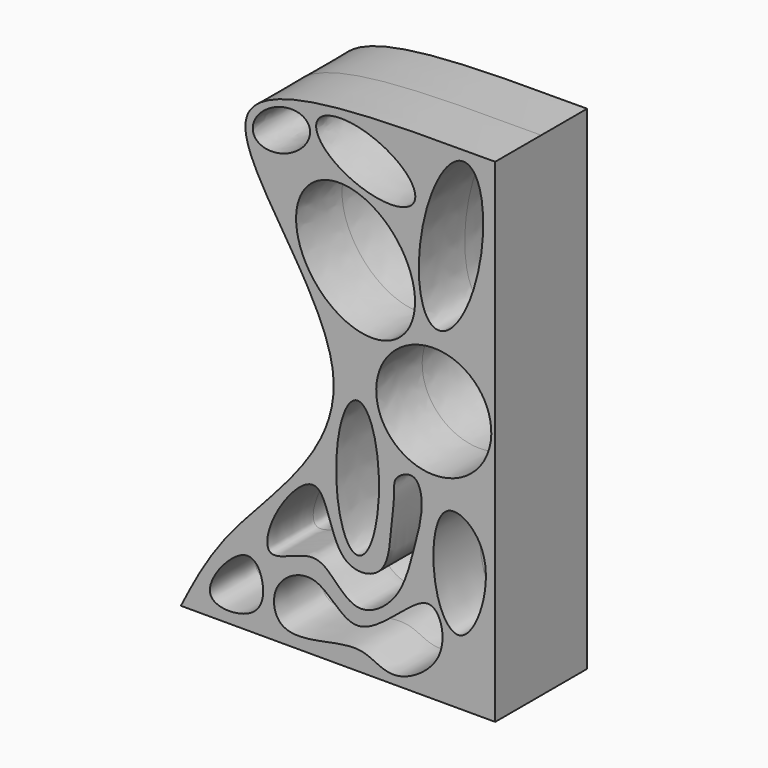
from build123d import *

# Parameters (mm, degrees)
F1_DEPTH = 25


with BuildPart() as f1:
    # F0 (on Front) → F1 (new body, symmetric)
    with BuildSketch(Plane.XZ):
        with BuildLine():
            Line((-136.7941200733, 0), (0, 0))
            Line((0, 0), (0, 93.1697487831))
            Line((0, 93.1697487831), (0, 214.6049141884))
            add(Edge.make_bspline(
                [(0, 214.6049141884), (-52.6230138631, 214.650377186), (-153.1433236908, 215.7874612497), (-37.6194103519, 106.5585054532), (-116.6616194996, 40.2002722281), (-130.7538289068, 11.7587614478), (-136.7941200733, 0)],
                knots=[0, 0, 0, 0, 0.2916341869, 0.5594674217, 0.8131004541, 1, 1, 1, 1], degree=3))
        make_face()
        with BuildLine():
            add(Edge.make_bspline(
                [(-108.9081466198, 28.4780822694), (-115.3085464657, 27.1416982134), (-134.7725582926, 3.5230139978), (-102.2734041726, 4.1089776529), (-99.5090221544, 20.6292411426), (-104.729380294, 29.3505959914), (-108.9081466198, 28.4780822694)],
                knots=[0, 0, 0, 0, 0.306756916, 0.5654545173, 0.7997210328, 1, 1, 1, 1], degree=3))
        make_face(mode=Mode.SUBTRACT)
        with BuildLine():
            add(Edge.make_bspline(
                [(-32.0020280778, 35.107921809), (-39.0419016312, 32.0894486993), (-60.8607966621, 5.9915700376), (-76.3137660054, 34.6438951271), (-98.401004559, 23.1588860634), (-95.4149290185, 1.6090226255), (-70.3804226837, 7.7397403126), (-56.2027677267, 9.5548644931), (-44.1085191178, -0.3094600161), (-21.0020829834, 14.3882991495), (-23.1745225035, 33.7260707991), (-28.6654835374, 36.5385256257), (-32.0020280778, 35.107921809)],
                knots=[0, 0, 0, 0, 0.1365776474, 0.247109983, 0.3479961115, 0.4379726256, 0.5486550206, 0.6394981249, 0.7252392763, 0.8390998568, 0.9352690925, 1, 1, 1, 1], degree=3))
        make_face(mode=Mode.SUBTRACT)
        with BuildLine():
            add(Edge.make_bspline(
                [(-43.9357422292, 74.0029662848), (-43.9488408992, 70.4320004544), (-45.5709102182, 59.4064900472), (-46.5800509693, 38.4227971035), (-70.8551864491, 36.271733783), (-74.0594563059, 77.1873776296), (-98.3287067605, 48.8056068707), (-101.2930391974, 27.5057821077), (-81.254140409, 39.2850373228), (-71.7981095063, 34.8173076032), (-60.4968608326, 19.6398771972), (-40.9505115651, 32.6868711616), (-35.763037163, 53.8024343894), (-30.3702033202, 72.6938779543), (-34.5734140863, 85.0445953783), (-44.5127990205, 79.6379584318), (-43.9278054868, 76.1666848921), (-43.9357422292, 74.0029662848)],
                knots=[0, 0, 0, 0, 0.0650986967, 0.1390145273, 0.2059327548, 0.2924973321, 0.3775674579, 0.4426661629, 0.5106502865, 0.5649882702, 0.6318928504, 0.7044663661, 0.7849866, 0.8614416796, 0.9132950954, 0.9605554161, 1, 1, 1, 1], degree=3))
        make_face(mode=Mode.SUBTRACT)
        with BuildLine():
            add(Edge.make_bspline(
                [(-20.9522992373, 74.0029662848), (-27.5383352152, 70.1745931003), (-28.8917254923, 39.0898126471), (-12.2677375099, 19.0529495741), (3.3075384256, 63.8614692071), (-15.9663596988, 76.9012251604), (-20.9522992373, 74.0029662848)],
                knots=[0, 0, 0, 0, 0.2920980737, 0.4861559049, 0.7788679959, 1, 1, 1, 1], degree=3))
        make_face(mode=Mode.SUBTRACT)
        with BuildLine():
            add(Edge.make_bspline(
                [(-59.8936484925, 44.3900227547), (-43.7369565382, 44.3900227547), (-51.8153025153, 88.8094380498), (-59.8936484925, 133.2288533449), (-67.9719944696, 88.8094380498), (-76.0503404468, 44.3900227547), (-59.8936484925, 44.3900227547)],
                knots=[0, 0, 0, 2.0943951024, 2.0943951024, 4.1887902048, 4.1887902048, 6.2831853072, 6.2831853072, 6.2831853072], degree=2, weights=[1, 0.5, 1, 0.5, 1, 0.5, 1]))
        make_face(mode=Mode.SUBTRACT)
        with BuildLine():
            add(Edge.make_bspline(
                [(-104.9712598324, 190.6851530075), (-98.6639771334, 177.5854214542), (-83.9172595974, 192.7539847549), (-69.1705420613, 207.9225480556), (-90.2245422964, 205.8537163082), (-111.2785425314, 203.7848845608), (-104.9712598324, 190.6851530075)],
                knots=[0, 0, 0, 2.0943951024, 2.0943951024, 4.1887902048, 4.1887902048, 6.2831853072, 6.2831853072, 6.2831853072], degree=2, weights=[1, 0.5, 1, 0.5, 1, 0.5, 1]))
        make_face(mode=Mode.SUBTRACT)
        with BuildLine():
            add(Edge.make_bspline(
                [(-41.7675077915, 133.669167757), (-11.3454386094, 158.3512143012), (-55.0644602378, 181.1479561386), (-98.7834818661, 203.9446979761), (-85.4865294199, 156.4659095945), (-72.1895769736, 108.9871212129), (-41.7675077915, 133.669167757)],
                knots=[0, 0, 0, 2.0943951024, 2.0943951024, 4.1887902048, 4.1887902048, 6.2831853072, 6.2831853072, 6.2831853072], degree=2, weights=[1, 0.5, 1, 0.5, 1, 0.5, 1]))
        make_face(mode=Mode.SUBTRACT)
        with BuildLine():
            add(Edge.make_bspline(
                [(-26.740046218, 85.9348773956), (16.6404971086, 85.9348773956), (-5.0497745547, 122.3985813558), (-26.740046218, 158.862285316), (-48.4303178814, 122.3985813558), (-70.1205895447, 85.9348773956), (-26.740046218, 85.9348773956)],
                knots=[4.7123889804, 4.7123889804, 4.7123889804, 6.8067840828, 6.8067840828, 8.9011791852, 8.9011791852, 10.9955742876, 10.9955742876, 10.9955742876], degree=2, weights=[1, 0.5, 1, 0.5, 1, 0.5, 1]))
        make_face(mode=Mode.SUBTRACT)
        with BuildLine():
            add(Edge.make_bspline(
                [(-35.1377502084, 188.0332380533), (-28.3490030829, 205.1837293693), (-63.5662387492, 209.2050536667), (-98.7834744155, 213.226377964), (-70.3549858747, 192.0545623507), (-41.9264973339, 170.8827467373), (-35.1377502084, 188.0332380533)],
                knots=[0, 0, 0, 2.0943951024, 2.0943951024, 4.1887902048, 4.1887902048, 6.2831853072, 6.2831853072, 6.2831853072], degree=2, weights=[1, 0.5, 1, 0.5, 1, 0.5, 1]))
        make_face(mode=Mode.SUBTRACT)
        with BuildLine():
            add(Edge.make_bspline(
                [(-25.4140961915, 142.0668810606), (-3.5962024659, 138.099991618), (-5.2234795853, 191.1326241187), (-6.8507567048, 244.1652566195), (-27.041373311, 195.0995135613), (-47.2319899172, 146.0337705032), (-25.4140961915, 142.0668810606)],
                knots=[0, 0, 0, 2.0943951024, 2.0943951024, 4.1887902048, 4.1887902048, 6.2831853072, 6.2831853072, 6.2831853072], degree=2, weights=[1, 0.5, 1, 0.5, 1, 0.5, 1]))
        make_face(mode=Mode.SUBTRACT)
    extrude(amount=F1_DEPTH, both=True)


solid = f1.part
